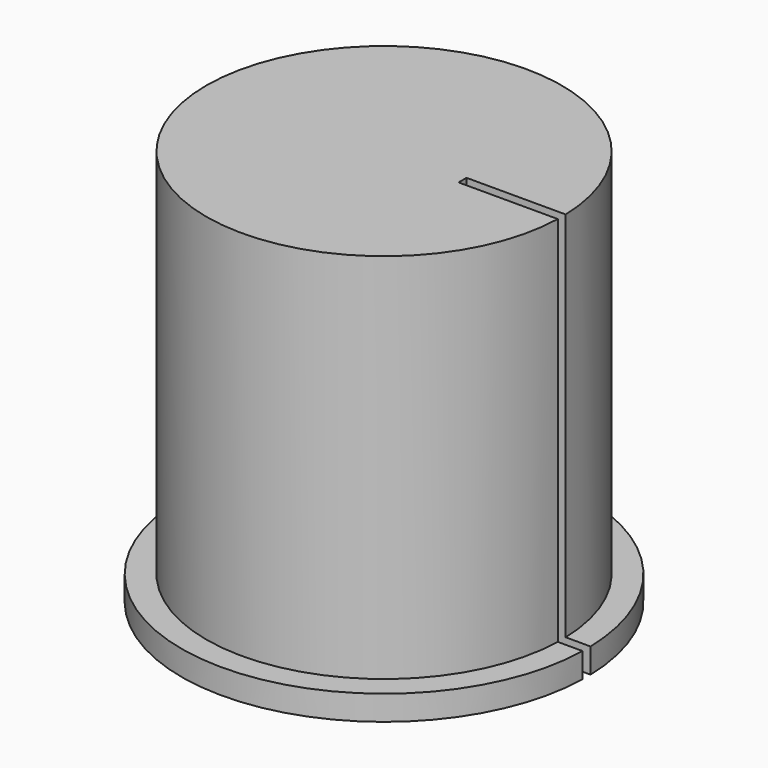
from build123d import *

# Parameters (mm, degrees)
F1_DEPTH = 30
F2_DEPTH = 2


with BuildPart() as f1:
    # F0 (on Top) → F1 (new body)
    with BuildSketch(Plane.XY):
        with BuildLine():
            Line((6.324367, 0.4), (14.318781, 0.4))
            ThreePointArc((14.318781, 0.4), (-14.324367, 0), (14.318781, -0.4))
            Line((14.318781, -0.4), (6.324367, -0.4))
            Line((6.324367, -0.4), (6.324367, 0.4))
        make_face()
    extrude(amount=F1_DEPTH)

    # F0 (on Top) → F2 (join)
    with BuildSketch(Plane.XY):
        with BuildLine():
            ThreePointArc((14.318781, -0.4), (-14.324367, 0), (14.318781, 0.4))
            Line((14.318781, 0.4), (16.319466, 0.4))
            ThreePointArc((16.319466, 0.4), (-16.324367, 0), (16.319466, -0.4))
            Line((16.319466, -0.4), (14.318781, -0.4))
        make_face()
        with BuildLine():
            Line((6.324367, 0.4), (14.318781, 0.4))
            ThreePointArc((14.318781, 0.4), (-14.324367, 0), (14.318781, -0.4))
            Line((14.318781, -0.4), (6.324367, -0.4))
            Line((6.324367, -0.4), (6.324367, 0.4))
        make_face()
    extrude(amount=-F2_DEPTH)


solid = f1.part
